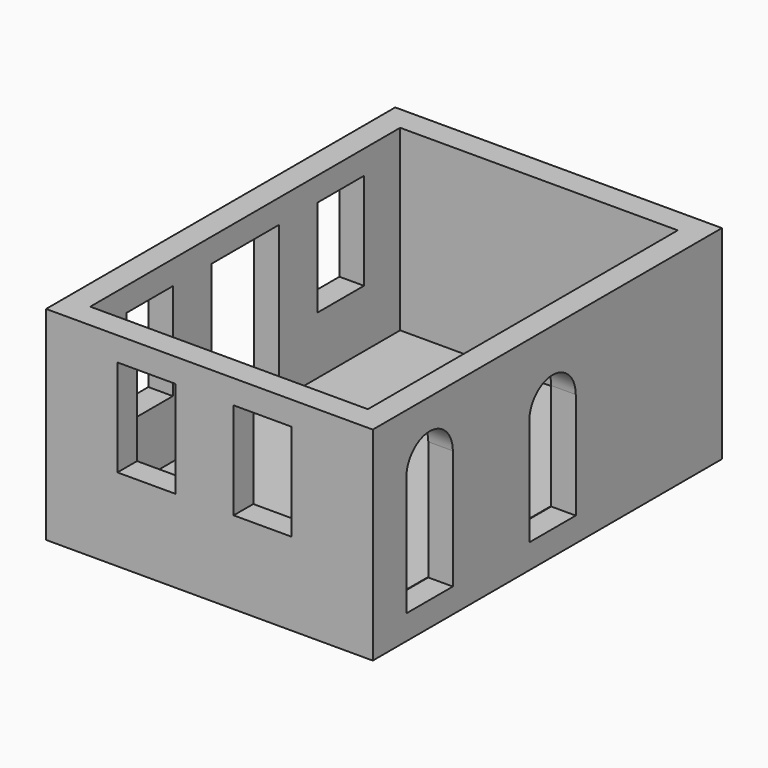
from build123d import *

# Parameters (mm, degrees)
F0_W      = 5060
F0_H      = 6760
F1_DEPTH  = 3150
F2_T      = -380
F3_W      = 1300
F3_H      = 2400
F3_W_2    = 900
F3_H_2    = 1500
F4_DEPTH  = 500
F5_W      = 900
F5_H      = 1500
F6_DEPTH  = 500
F8_DEPTH  = 380.001
F9_W      = 4300
F9_H      = 6000
F10_DEPTH = 8


with BuildPart() as f1:
    # F0 (on Top) → F1 (new body)
    with BuildSketch(Plane.XY):
        Rectangle(F0_W, F0_H)
    extrude(amount=F1_DEPTH)

    # F2
    f2_openings = [f1.faces().sort_by_distance(p)[0] for p in [
        (0, 0, 3150),
    ]]
    offset(amount=F2_T, openings=f2_openings)

    # F3 (on face) → F4 (cut)
    with BuildSketch(Plane(origin=(-2530, 0, 0), x_dir=(0, -1, 0), z_dir=(-1, 0, 0))):
        with Locations((0, 1580)):
            Rectangle(F3_W, F3_H)
        with Locations((-1850, 2030)):
            Rectangle(F3_W_2, F3_H_2)
        with Locations((1850, 2030)):
            Rectangle(F3_W_2, F3_H_2)
    extrude(amount=-F4_DEPTH, mode=Mode.SUBTRACT)

    # F5 (on face) → F6 (cut)
    with BuildSketch(Plane.XZ.offset(3380)):
        with Locations((-975, 2030)):
            Rectangle(F5_W, F5_H)
        with Locations((825, 2030)):
            Rectangle(F5_W, F5_H)
    extrude(amount=-F6_DEPTH, mode=Mode.SUBTRACT)

    # F7 (on face) → F8 (cut, through all)
    with BuildSketch(Plane(origin=(2150, 0, 0), x_dir=(0, -1, 0), z_dir=(-1, 0, 0))):
        with BuildLine():
            Line((-550, 2030), (-550, 380))
            Line((-550, 380), (350, 380))
            Line((350, 380), (350, 2030))
            ThreePointArc((350, 2030), (-100, 2480), (-550, 2030))
        make_face()
        with BuildLine():
            Line((1830, 2230), (1830, 380))
            Line((1830, 380), (2730, 380))
            Line((2730, 380), (2730, 2230))
            ThreePointArc((2730, 2230), (2280, 2680), (1830, 2230))
        make_face()
    extrude(amount=-F8_DEPTH, mode=Mode.SUBTRACT)

    # F9 (on face) → F10 (join)
    with BuildSketch(Plane.XY.offset(380)):
        Rectangle(F9_W, F9_H)
    extrude(amount=F10_DEPTH)


solid = f1.part
